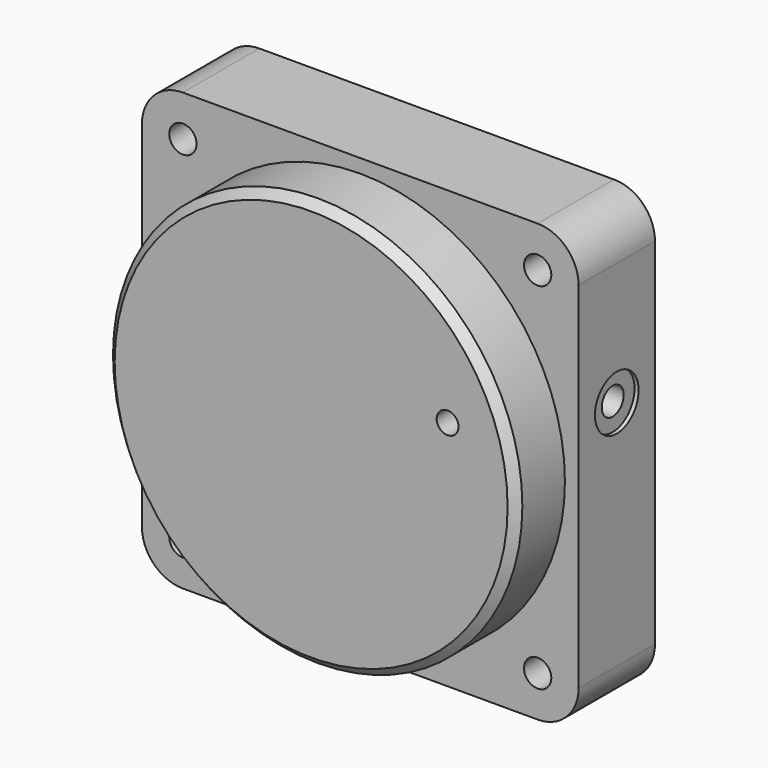
from build123d import *

# Parameters (mm, degrees)
F0_W      = 160
F0_H      = 160
F0_R      = 75
F1_DEPTH  = 35
F2_DEPTH  = 57.5
F3_SIZE2  = 3
F3_SIZE   = 3
F4_R      = 15
F5_D      = 10
F7_D      = 8
F7_DEPTH  = 40
F8_R      = 4
F9_DEPTH  = 34.5
F8_R_2    = 5
F10_DEPTH = 20
F8_R_3    = 10
F11_DEPTH = 1.5


with BuildPart() as f1:
    # F0 (on Front) → F1 (new body)
    with BuildSketch(Plane.XZ):
        Rectangle(F0_W, F0_H)
        Circle(F0_R, mode=Mode.SUBTRACT)
        Circle(F0_R)
    extrude(amount=F1_DEPTH)

    # F0 (on Front) → F2 (join)
    with BuildSketch(Plane.XZ):
        Circle(F0_R)
    extrude(amount=F2_DEPTH)

    # F3
    f3_edges = [f1.edges().sort_by_distance(p)[0] for p in [
        (-75, -57.5, 0),
    ]]
    chamfer(f3_edges, length=F3_SIZE, length2=F3_SIZE2)

    # F4
    f4_edges = [f1.edges().sort_by_distance(p)[0] for p in [
        (-80, -17.5, 80),
        (-80, -17.5, -80),
        (80, -17.5, -80),
        (80, -17.5, 80),
    ]]
    fillet(f4_edges, radius=F4_R)

    # F5 (through all)
    with Locations(Plane(origin=(0, 0, 0), x_dir=(1, 0, 0), z_dir=(0, 1, 0))):
        with Locations((-65, 65), (65, 65), (65, -65), (-65, -65)):
            Hole(F5_D / 2)

    # F7
    with Locations(Plane.XZ.offset(57.5)):
        with Locations((50, 20)):
            Hole(F7_D / 2, depth=F7_DEPTH)

    # F8 (on face) → F9 (cut)
    with BuildSketch(Plane.YZ.offset(80)):
        with Locations((-17.5, 20)):
            Circle(F8_R)
    extrude(amount=-F9_DEPTH, mode=Mode.SUBTRACT)

    # F8 (on face) → F10 (cut)
    with BuildSketch(Plane.YZ.offset(80)):
        with Locations((-17.5, 20)):
            Circle(F8_R_2)
        with Locations((-17.5, 20)):
            Circle(F8_R, mode=Mode.SUBTRACT)
    extrude(amount=-F10_DEPTH, mode=Mode.SUBTRACT)

    # F8 (on face) → F11 (cut)
    with BuildSketch(Plane.YZ.offset(80)):
        with Locations((-17.5, 20)):
            Circle(F8_R_3)
        with Locations((-17.5, 20)):
            Circle(F8_R_2, mode=Mode.SUBTRACT)
    extrude(amount=-F11_DEPTH, mode=Mode.SUBTRACT)


solid = f1.part
